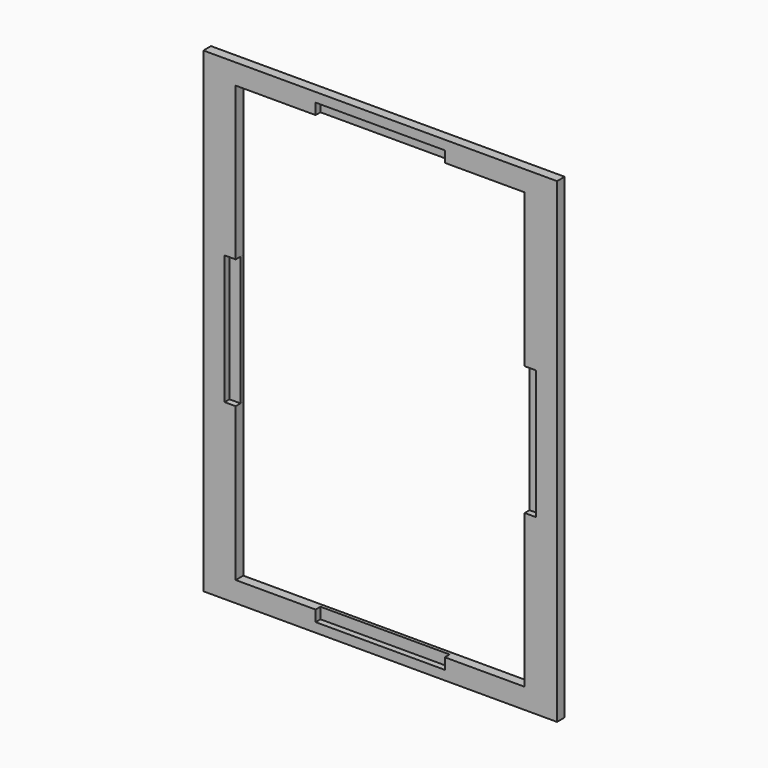
from build123d import *

# Parameters (mm, degrees)
F1_DEPTH = 2.8
F0_W     = 3.25
F0_H     = 19
F0_W_2   = 19
F0_H_2   = 3.25
F2_DEPTH = 1


with BuildPart() as f1:
    # F0 (on Front) → F1 (new body)
    with BuildSketch(Plane.XZ):
        Polygon((-66.202514, 85.554789), (-66.202514, 15.554789), (-59.952514, 15.554789), (-59.952514, 34.554789), (-56.702514, 34.554789), (-56.702514, 79.554789), (-33.202514, 79.554789), (-33.202514, 82.804789), (-14.202514, 82.804789), (-14.202514, 85.554789), align=None)
        Polygon((31.547486, 15.554789), (37.797486, 15.554789), (37.797486, 85.554789), (-14.202514, 85.554789), (-14.202514, 82.804789), (4.797486, 82.804789), (4.797486, 79.554789), (28.297486, 79.554789), (28.297486, 34.554789), (31.547486, 34.554789), align=None)
        Polygon((-14.202514, -54.445211), (37.797486, -54.445211), (37.797486, 15.554789), (31.547486, 15.554789), (31.547486, -3.445211), (28.297486, -3.445211), (28.297486, -48.445211), (4.797486, -48.445211), (4.797486, -51.695211), (-14.202514, -51.695211), align=None)
        Polygon((-66.202514, -54.445211), (-14.202514, -54.445211), (-14.202514, -51.695211), (-33.202514, -51.695211), (-33.202514, -48.445211), (-56.702514, -48.445211), (-56.702514, -3.445211), (-59.952514, -3.445211), (-59.952514, 15.554789), (-66.202514, 15.554789), align=None)
    extrude(amount=F1_DEPTH)


with BuildPart() as f2:
    # F0 (on Front) → F2 (new body)
    with BuildSketch(Plane.XZ):
        with Locations((-58.327514, 25.054789)):
            Rectangle(F0_W, F0_H)
        with Locations((-58.327514, 6.054789)):
            Rectangle(F0_W, F0_H)
        with Locations((-23.702514, 81.179789)):
            Rectangle(F0_W_2, F0_H_2)
        with Locations((-4.702514, 81.179789)):
            Rectangle(F0_W_2, F0_H_2)
        with Locations((29.922486, 25.054789)):
            Rectangle(F0_W, F0_H)
        with Locations((29.922486, 6.054789)):
            Rectangle(F0_W, F0_H)
        with Locations((-23.702514, -50.070211)):
            Rectangle(F0_W_2, F0_H_2)
        with Locations((-4.702514, -50.070211)):
            Rectangle(F0_W_2, F0_H_2)
    extrude(amount=F2_DEPTH)


solid = Compound([f1.part, f2.part])
